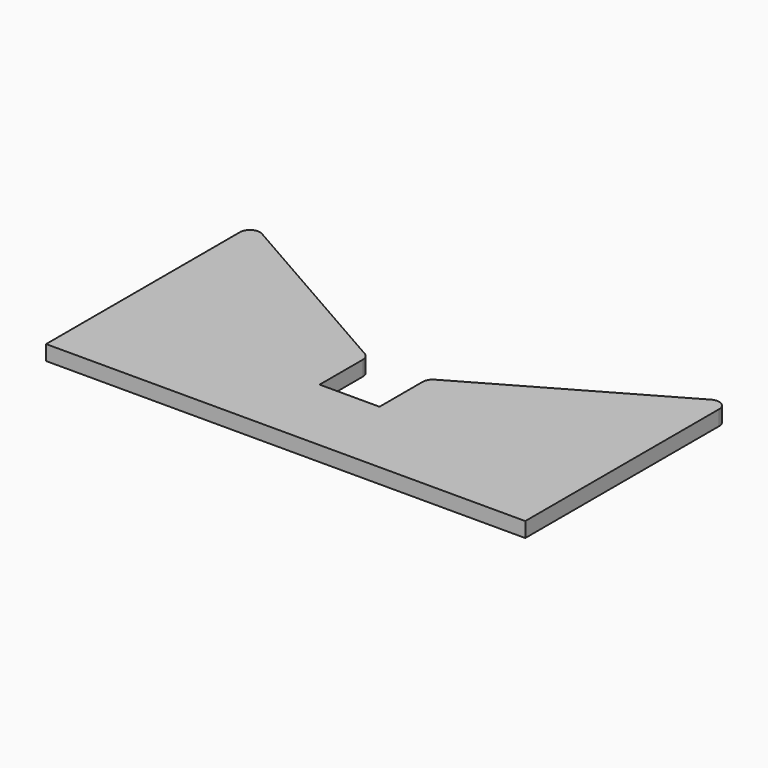
from build123d import *

# Parameters (mm, degrees)
F1_DEPTH = 4.7625


with BuildPart() as f1:
    # F0 (on Top) → F1 (new body)
    with BuildSketch(Plane.XY):
        with BuildLine():
            Line((-76.2, -41.275), (76.2, -41.275))
            Line((76.2, -41.275), (76.2, 35.803905))
            ThreePointArc((76.2, 35.803905), (74.618618, 38.549994), (71.449759, 38.560576))
            Line((71.449759, 38.560576), (11.124759, 4.089148))
            ThreePointArc((11.124759, 4.089148), (9.95391, 2.926094), (9.525, 1.332476))
            Line((9.525, 1.332476), (9.525, -15.875))
            Line((9.525, -15.875), (-9.525, -15.875))
            Line((-9.525, -15.875), (-9.525, 1.332476))
            ThreePointArc((-9.525, 1.332476), (-9.95391, 2.926094), (-11.124759, 4.089148))
            Line((-11.124759, 4.089148), (-71.449759, 38.560576))
            ThreePointArc((-71.449759, 38.560576), (-74.618618, 38.549994), (-76.2, 35.803905))
            Line((-76.2, 35.803905), (-76.2, -41.275))
        make_face()
    extrude(amount=F1_DEPTH)


solid = f1.part
